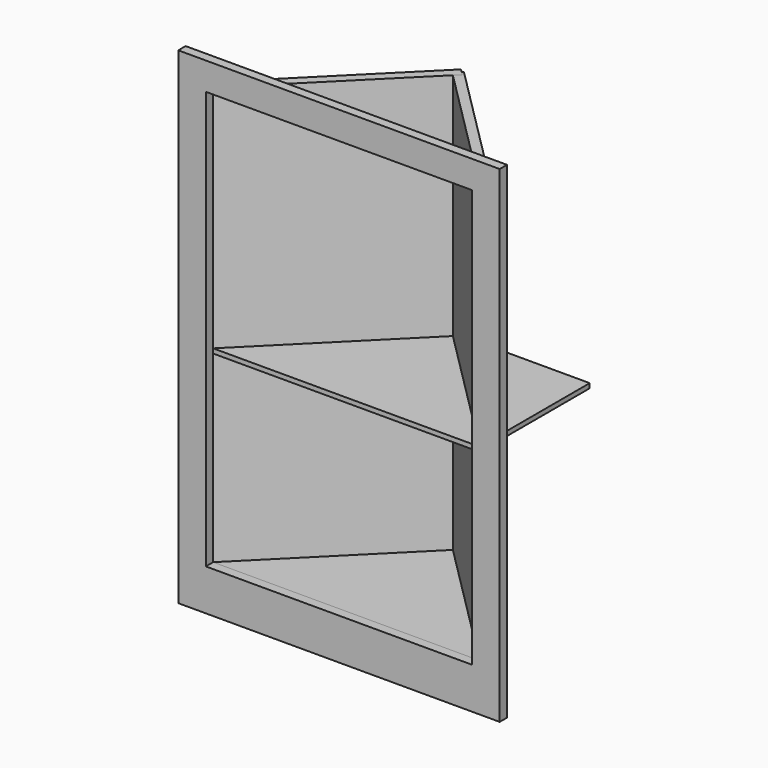
from build123d import *

# Parameters (mm, degrees)
F0_W      = 76.2
F0_H      = 114.3
F0_W_2    = 736.6
F0_H_2    = 1155.7
F0_H_3    = 76.2
F1_DEPTH  = 25.4
F2_W      = 736.6
F2_H      = 12.7
F3_DEPTH  = 381
F5_W      = 533.4
F5_H      = 1155.7
F6_DEPTH  = 25.4
F8_W      = 541.198207
F8_H      = 1155.7
F9_DEPTH  = 25.4
F11_DEPTH = 25.4


with BuildPart() as f1:
    # F0 (on Front) → F1 (new body)
    with BuildSketch(Plane.XZ):
        with Locations((-38.1, 57.15)):
            Rectangle(F0_W, F0_H)
        with Locations((-444.5, 57.15)):
            Rectangle(F0_W_2, F0_H)
        with Locations((-38.1, 692.15)):
            Rectangle(F0_W, F0_H_2)
        with Locations((-850.9, 57.15)):
            Rectangle(F0_W, F0_H)
        with Locations((-38.1, 1308.1)):
            Rectangle(F0_W, F0_H_3)
        with Locations((-850.9, 692.15)):
            Rectangle(F0_W, F0_H_2)
        with Locations((-444.5, 1308.1)):
            Rectangle(F0_W_2, F0_H_3)
        with Locations((-850.9, 1308.1)):
            Rectangle(F0_W, F0_H_3)
    extrude(amount=F1_DEPTH)


with BuildPart() as f3:
    # F2 (on Front) → F3 (new body)
    with BuildSketch(Plane.XZ):
        with Locations((-444.5, 628.65)):
            Rectangle(F2_W, F2_H)
    extrude(amount=-F3_DEPTH)


with BuildPart() as f6:
    # F5 (on face) → F6 (new body)
    with BuildSketch(Plane(origin=(-38.1, -38.1, 0), x_dir=(-0.707107, 0.707107, 0), z_dir=(0.707107, 0.707107, 0))):
        with Locations((320.581537, 692.15)):
            Rectangle(F5_W, F5_H)
    extrude(amount=F6_DEPTH)


with BuildPart() as f9:
    # F8 (on face) → F9 (new body)
    with BuildSketch(Plane(origin=(-406.4, 406.4, 0), x_dir=(-0.707107, -0.707107, 0), z_dir=(-0.707107, 0.707107, 0))):
        with Locations((304.137289, 692.15)):
            Rectangle(F8_W, F8_H)
    extrude(amount=F9_DEPTH)


with BuildPart() as f11:
    # F10 (on face) → F11 (new body)
    with BuildSketch(Plane(origin=(0, 0, 114.3), x_dir=(1, 0, 0), z_dir=(0, 0, -1))):
        Polygon((-47.430156, 0), (-812.8, 0), (-430.115078, -382.684922), align=None)
    extrude(amount=F11_DEPTH)


with BuildPart() as f3_1:
    add(f3.part)

    # F12: cut F9, F6
    add(f9.part, mode=Mode.SUBTRACT)
    add(f6.part, mode=Mode.SUBTRACT)


solid = Compound([f1.part, f6.part, f9.part, f11.part, f3_1.part])
